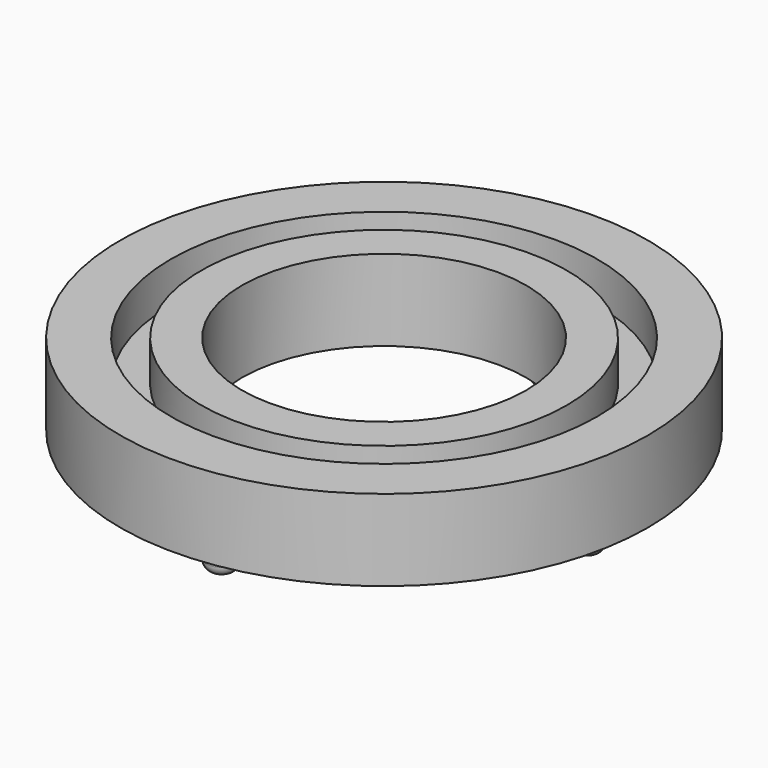
from build123d import *

# Parameters (mm, degrees)
F0_R     = 13
F0_R_2   = 7
F1_DEPTH = 4
F2_R     = 0.75
F3_DEPTH = 2
F4_R     = 0.5
F5_R     = 10.5
F5_R_2   = 9
F6_DEPTH = 2


with BuildPart() as f1:
    # F0 (on Top) → F1 (new body)
    with BuildSketch(Plane.XY):
        Circle(F0_R)
        Circle(F0_R_2, mode=Mode.SUBTRACT)
    extrude(amount=F1_DEPTH)

    # F2 (on Top) → F3 (join)
    with BuildSketch(Plane.XY):
        with Locations((0, -10)):
            Circle(F2_R)
        with Locations((-10, 0)):
            Circle(F2_R)
        with Locations((0, 10)):
            Circle(F2_R)
        with Locations((10, 0)):
            Circle(F2_R)
    extrude(amount=-F3_DEPTH)

    # F4
    f4_edges = [f1.edges().sort_by_distance(p)[0] for p in [
        (-10.75, 0, -2),
        (-0.75, -10, -2),
        (9.25, 0, -2),
        (-0.75, 10, -2),
    ]]
    fillet(f4_edges, radius=F4_R)

    # F5 (on face) → F6 (cut)
    with BuildSketch(Plane.XY.offset(4)):
        Circle(F5_R)
        Circle(F5_R_2, mode=Mode.SUBTRACT)
    extrude(amount=-F6_DEPTH, mode=Mode.SUBTRACT)


solid = f1.part
